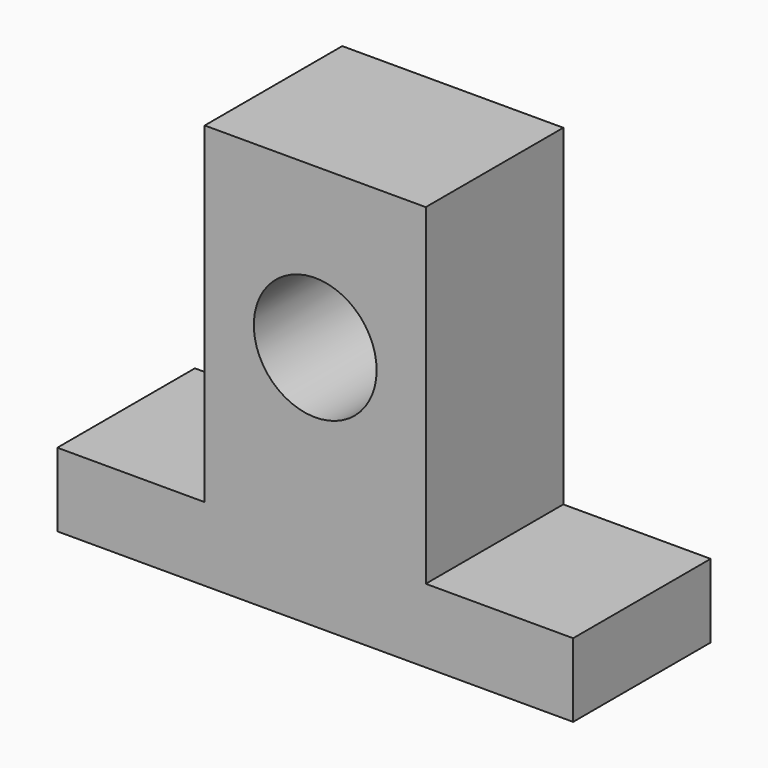
from build123d import *

# Parameters (mm, degrees)
F0_W     = 42
F0_H     = 14
F1_DEPTH = 6
F2_W     = 18
F2_H     = 14
F3_DEPTH = 27
F4_R     = 5
F5_DEPTH = 14


with BuildPart() as f1:
    # F0 (on Top) → F1 (new body)
    with BuildSketch(Plane.XY):
        Rectangle(F0_W, F0_H)
    extrude(amount=F1_DEPTH)

    # F2 (on face) → F3 (join)
    with BuildSketch(Plane.XY.offset(6)):
        Rectangle(F2_W, F2_H)
    extrude(amount=F3_DEPTH)

    # F4 (on face) → F5 (cut, through all)
    with BuildSketch(Plane.XZ.offset(7)):
        with Locations((0, 20)):
            Circle(F4_R)
    extrude(amount=-F5_DEPTH, mode=Mode.SUBTRACT)


solid = f1.part
